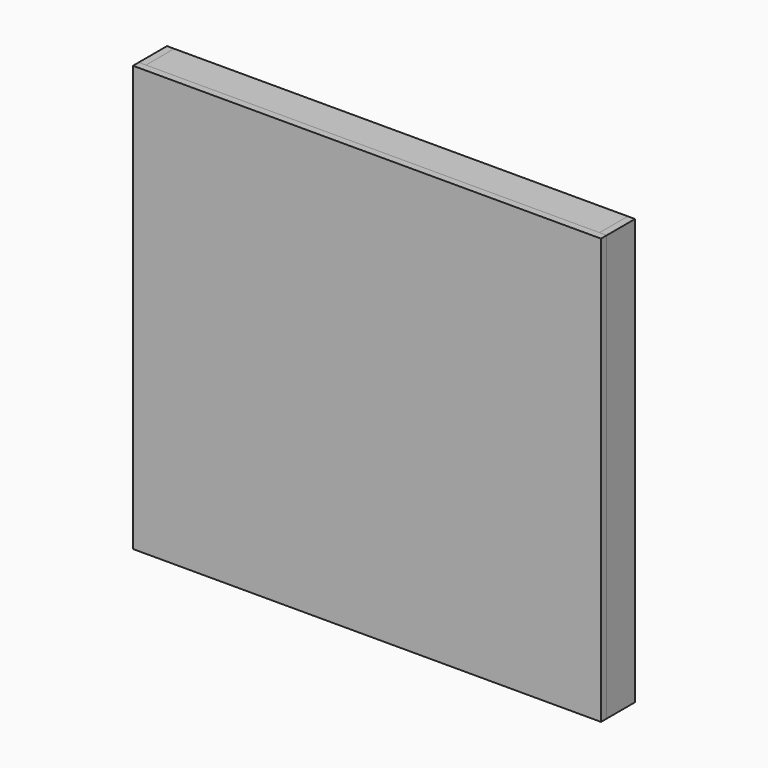
from build123d import *

# Parameters (mm, degrees)
F0_W     = 1117.6
F0_H     = 1016
F1_DEPTH = 17.145
F2_W     = 17.145
F2_H     = 1016
F3_DEPTH = 84.455
F4_W     = 17.145
F4_H     = 1016
F5_DEPTH = 84.455
F6_W     = 1083.31
F6_H     = 17.145
F7_DEPTH = 84.455
F8_W     = 1083.31
F8_H     = 17.145
F9_DEPTH = 84.455


with BuildPart() as f1:
    # F0 (on Front) → F1 (new body)
    with BuildSketch(Plane.XZ):
        with Locations((558.8, 508)):
            Rectangle(F0_W, F0_H)
    extrude(amount=F1_DEPTH)


with BuildPart() as f3:
    # F2 (on face) → F3 (new body)
    with BuildSketch(Plane(origin=(0, 0, 0), x_dir=(-1, 0, 0), z_dir=(0, 1, 0))):
        with Locations((-8.5725, 508)):
            Rectangle(F2_W, F2_H)
    extrude(amount=F3_DEPTH)


with BuildPart() as f5:
    # F4 (on face) → F5 (new body)
    with BuildSketch(Plane(origin=(0, 0, 0), x_dir=(-1, 0, 0), z_dir=(0, 1, 0))):
        with Locations((-1109.0275, 508)):
            Rectangle(F4_W, F4_H)
    extrude(amount=F5_DEPTH)


with BuildPart() as f7:
    # F6 (on face) → F7 (new body)
    with BuildSketch(Plane(origin=(0, 0, 0), x_dir=(-1, 0, 0), z_dir=(0, 1, 0))):
        with Locations((-558.8, 1007.4275)):
            Rectangle(F6_W, F6_H)
        with Locations((-558.8, 8.5725)):
            Rectangle(F6_W, F6_H)
    extrude(amount=F7_DEPTH)


with BuildPart() as f9:
    # F8 (on face) → F9 (new body)
    with BuildSketch(Plane(origin=(0, 0, 0), x_dir=(-1, 0, 0), z_dir=(0, 1, 0))):
        with Locations((-558.8, 228.9175)):
            Rectangle(F8_W, F8_H)
        with Locations((-558.8, 381.3175)):
            Rectangle(F8_W, F8_H)
        with Locations((-558.8, 533.7175)):
            Rectangle(F8_W, F8_H)
        with Locations((-558.8, 686.1175)):
            Rectangle(F8_W, F8_H)
        with Locations((-558.8, 838.5175)):
            Rectangle(F8_W, F8_H)
    extrude(amount=F9_DEPTH)


solid = Compound([f1.part, f3.part, f5.part, f7.part, f9.part])
